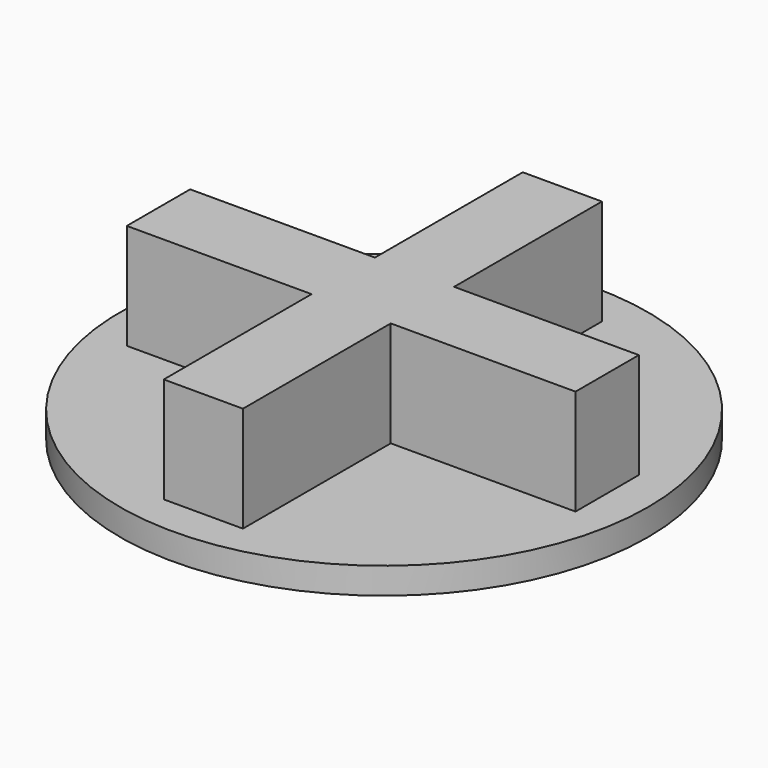
from build123d import *

# Parameters (mm, degrees)
F0_R     = 12.7
F1_DEPTH = 1.27
F4_DEPTH = 5.08


with BuildPart() as f1:
    # F0 (on Top) → F1 (new body)
    with BuildSketch(Plane.XY):
        Circle(F0_R)
    extrude(amount=F1_DEPTH)

    # F3 (on offset) → F4 (join)
    with BuildSketch(Plane.XY.offset(1.27)):
        Polygon((1.905, 10.719711), (-1.905, 10.719711), (-1.905, 1.829711), (-10.795, 1.829711), (-10.795, -1.980289), (-1.905, -1.980289), (-1.905, -10.870289), (1.905, -10.870289), (1.905, -1.980289), (10.795, -1.980289), (10.795, 1.829711), (1.905, 1.829711), align=None)
    extrude(amount=F4_DEPTH)


solid = f1.part
